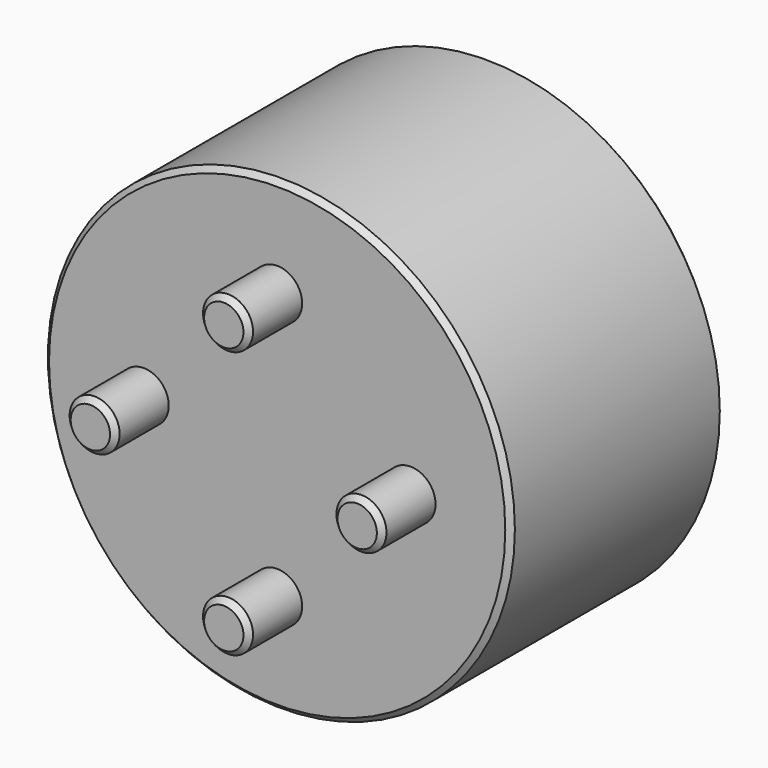
from build123d import *

# Parameters (mm, degrees)
F0_R     = 22.225
F1_DEPTH = 25.4
F2_R     = 2.38125
F3_DEPTH = 6.35
F4_W     = 9.652
F4_H     = 9.652
F5_DEPTH = 12.7
F6_R     = 0.508
F7_SIZE  = 0.508


with BuildPart() as f1:
    # F0 (on Front) → F1 (new body)
    with BuildSketch(Plane.XZ):
        Circle(F0_R)
    extrude(amount=F1_DEPTH)

    # F2 (on face) → F3 (join)
    with BuildSketch(Plane.XZ.offset(25.4)):
        with Locations((0, 12.7)):
            Circle(F2_R)
        with Locations((-12.7, 0)):
            Circle(F2_R)
        with Locations((0, -12.7)):
            Circle(F2_R)
        with Locations((12.7, 0)):
            Circle(F2_R)
    extrude(amount=F3_DEPTH)

    # F4 (on face) → F5 (cut)
    with BuildSketch(Plane(origin=(0, 0, 0), x_dir=(-1, 0, 0), z_dir=(0, 1, 0))):
        Rectangle(F4_W, F4_H)
    extrude(amount=-F5_DEPTH, mode=Mode.SUBTRACT)

    # F6
    f6_edges = [f1.edges().sort_by_distance(p)[0] for p in [
        (-4.826, -6.35, -4.826),
        (-4.826, -6.35, 4.826),
        (4.826, -6.35, 4.826),
        (4.826, -6.35, -4.826),
    ]]
    fillet(f6_edges, radius=F6_R)

    # F7
    f7_edges = [f1.edges().sort_by_distance(p)[0] for p in [
        (0, 0, -4.826),
        (-22.225, 0, 0),
        (-22.225, -25.4, 0),
        (-15.08125, -31.75, 0),
        (-2.38125, -31.75, 12.7),
        (10.31875, -31.75, 0),
        (-2.38125, -31.75, -12.7),
    ]]
    chamfer(f7_edges, length=F7_SIZE)


solid = f1.part
